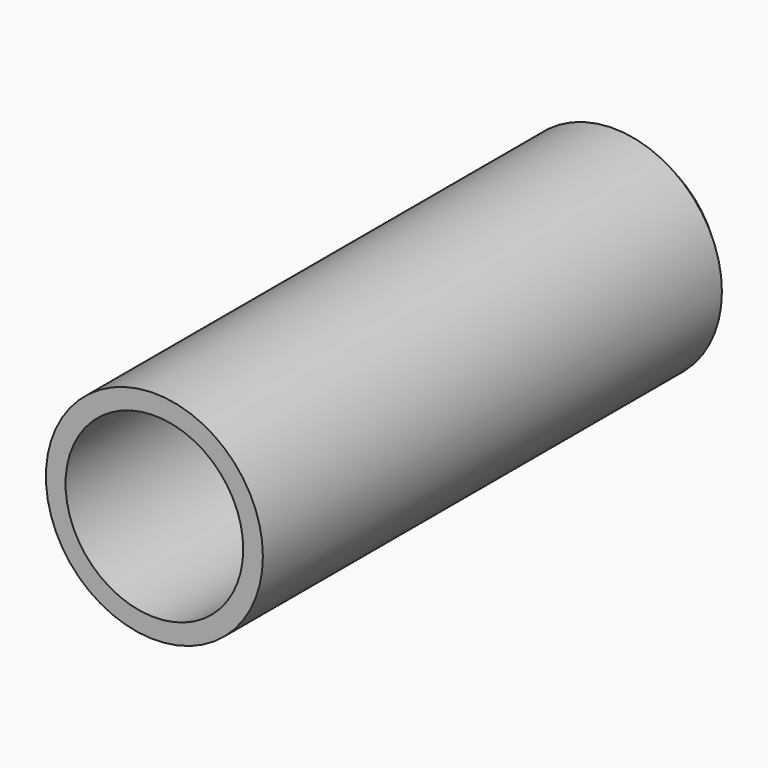
from build123d import *

# Parameters (mm, degrees)
F2_R     = 14.024247
F0_DEPTH = 76.2
F1_T     = -2.54
F3_SIZE  = 2.032


with BuildPart() as f0:
    # F2 (on Front) → F0 (new body)
    with BuildSketch(Plane.XZ):
        Circle(F2_R)
    extrude(amount=F0_DEPTH)

    # F1
    f1_openings = [f0.faces().sort_by_distance(p)[0] for p in [
        (0, -76.2, 0),
    ]]
    offset(amount=F1_T, openings=f1_openings)

    # F3
    f3_edges = [f0.edges().sort_by_distance(p)[0] for p in [
        (-14.024247, 0, 0),
    ]]
    chamfer(f3_edges, length=F3_SIZE)


solid = f0.part
